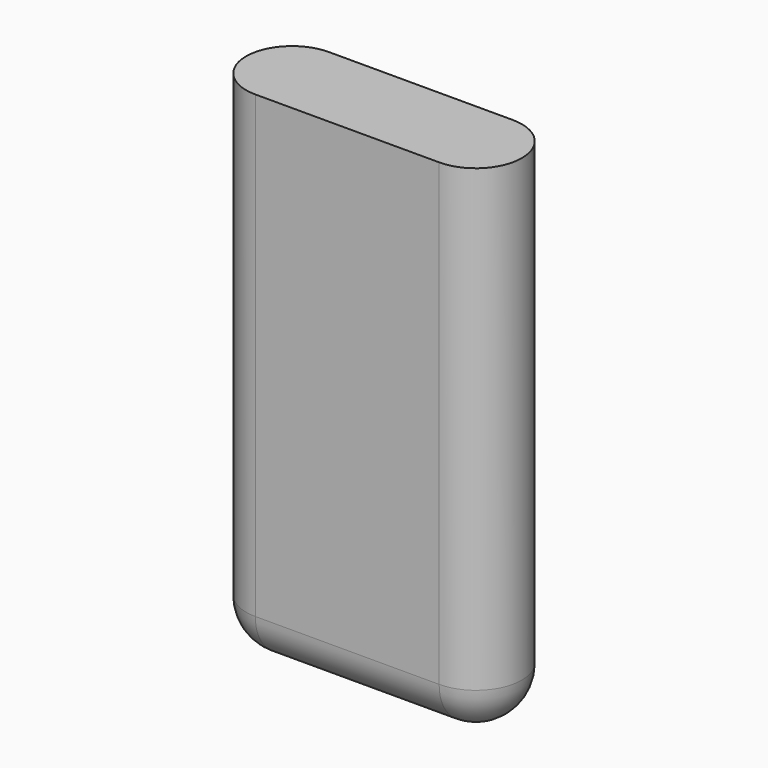
from build123d import *

# Parameters (mm, degrees)
CYLINDER_R     = 0.5
CYLINDER_DEPTH = 2
PAD001_DEPTH   = 5


with BuildPart() as sphere:
    # Sphere → Sphere (revolve)
    with BuildSketch(Plane.XZ):
        with BuildLine():
            ThreePointArc((0, -0.5), (0.5, 0), (0, 0.5))
            Line((0, 0.5), (0, -0.5))
        make_face()
    revolve(axis=Axis((0, 0, 0), (0, 0, 1)))


with BuildPart() as sphere001:
    # Sphere001 → Sphere001 (revolve)
    with BuildSketch(Plane(origin=(2, 0, 0), x_dir=(1, 0, 0), z_dir=(0, -1, 0))):
        with BuildLine():
            ThreePointArc((0, -0.5), (0.5, 0), (0, 0.5))
            Line((0, 0.5), (0, -0.5))
        make_face()
    revolve(axis=Axis((2, 0, 0), (0, 0, 1)))


with BuildPart() as body001:
    # Cylinder → Cylinder (new body)
    with BuildSketch(Plane(origin=(0, 0, 0), x_dir=(0, 0, -1), z_dir=(1, 0, 0))):
        Circle(CYLINDER_R)
    extrude(amount=CYLINDER_DEPTH)

    # Fusion: union Sphere, Sphere001
    add(sphere.part)
    add(sphere001.part)

    # Sketch002 → Pad001 (new body)
    with BuildSketch(Plane.XY):
        with BuildLine():
            ThreePointArc((0, 0.5), (-0.5, 0), (0, -0.5))
            Line((0, -0.5), (2, -0.5))
            ThreePointArc((2, -0.5), (2.5, 0), (2, 0.5))
            Line((0, 0.5), (2, 0.5))
        make_face()
    extrude(amount=PAD001_DEPTH)


solid = body001.part
